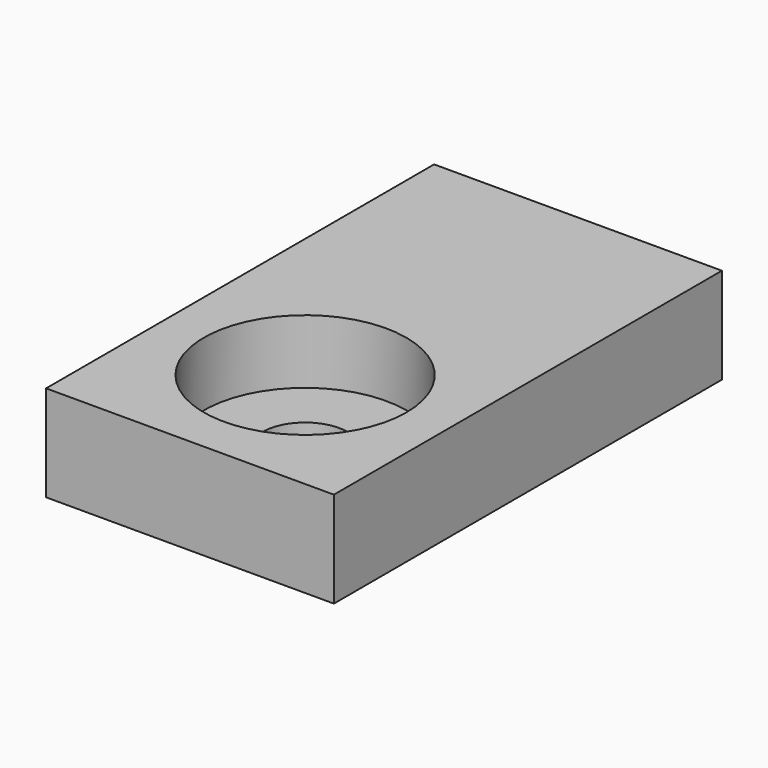
from build123d import *

# Parameters (mm, degrees)
F0_W     = 27
F0_H     = 45.5
F0_R     = 9.5
F1_DEPTH = 6
F0_R_2   = 4
F2_DEPTH = 3


with BuildPart() as f1:
    # F0 (on Top) → F1 (new body)
    with BuildSketch(Plane.XY):
        with Locations((0, 9.25)):
            Rectangle(F0_W, F0_H)
        Circle(F0_R, mode=Mode.SUBTRACT)
    extrude(amount=F1_DEPTH)

    # F0 (on Top) → F2 (join)
    with BuildSketch(Plane.XY):
        with Locations((0, 9.25)):
            Rectangle(F0_W, F0_H)
        Circle(F0_R, mode=Mode.SUBTRACT)
        with Locations((0, 9.25)):
            Rectangle(F0_W, F0_H)
        Circle(F0_R, mode=Mode.SUBTRACT)
        Circle(F0_R)
        Circle(F0_R_2, mode=Mode.SUBTRACT)
    extrude(amount=-F2_DEPTH)


solid = f1.part
